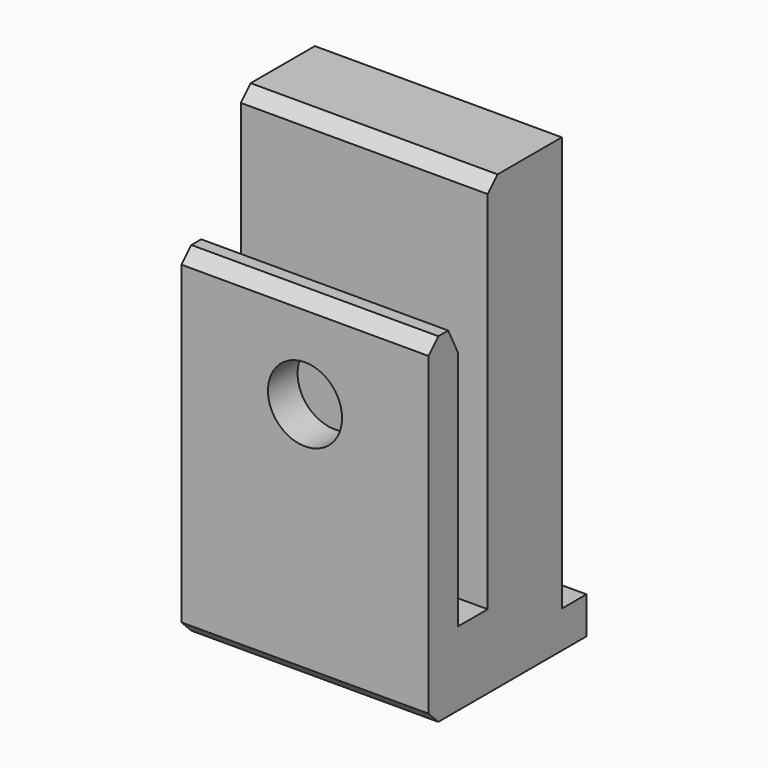
from build123d import *

# Parameters (mm, degrees)
CYLINDER016_R     = 1.7
CYLINDER016_DEPTH = 20
CYLINDER015_R     = 3
CYLINDER015_DEPTH = 20
BOX026_W          = 20
BOX026_H          = 6
BOX026_DEPTH      = 6
BOX025_W          = 20
BOX025_H          = 7.5
BOX025_DEPTH      = 36.6
BOX027_W          = 20
BOX027_H          = 16
BOX027_DEPTH      = 3
BOX028_W          = 20
BOX028_H          = 3
BOX028_DEPTH      = 27.5
CHAMFER022_SIZE2  = 2
CHAMFER022_SIZE   = 1
CHAMFER023_SIZE   = 1


with BuildPart() as cylinder016:
    # Cylinder016 → Cylinder016 (new body)
    with BuildSketch(Plane(origin=(10, 12, 16.8), x_dir=(1, 0, 0), z_dir=(0, -1, 0))):
        Circle(CYLINDER016_R)
    extrude(amount=CYLINDER016_DEPTH)


with BuildPart() as cylinder015:
    # Cylinder015 → Cylinder015 (new body)
    with BuildSketch(Plane(origin=(10, 5, 16.8), x_dir=(1, 0, 0), z_dir=(0, -1, 0))):
        Circle(CYLINDER015_R)
    extrude(amount=CYLINDER015_DEPTH)


with BuildPart() as cube026:
    # Box026 → Box026 (new body)
    with BuildSketch(Plane(origin=(0, -6, -3), x_dir=(1, 0, 0), z_dir=(0, 0, 1))):
        with Locations((10, 3)):
            Rectangle(BOX026_W, BOX026_H)
    extrude(amount=BOX026_DEPTH)


with BuildPart() as cube025:
    # Box025 → Box025 (new body)
    with BuildSketch(Plane.XY.offset(-3)):
        with Locations((10, 3.75)):
            Rectangle(BOX025_W, BOX025_H)
    extrude(amount=BOX025_DEPTH)


with BuildPart() as cube027:
    # Box027 → Box027 (new body)
    with BuildSketch(Plane(origin=(0, -6, -3), x_dir=(1, 0, 0), z_dir=(0, 0, 1))):
        with Locations((10, 8)):
            Rectangle(BOX027_W, BOX027_H)
    extrude(amount=BOX027_DEPTH)


with BuildPart() as clip_side_bottom_center:
    # Box028 → Box028 (new body)
    with BuildSketch(Plane(origin=(0, -6, -3), x_dir=(1, 0, 0), z_dir=(0, 0, 1))):
        with Locations((10, 1.5)):
            Rectangle(BOX028_W, BOX028_H)
    extrude(amount=BOX028_DEPTH)

    # Fusion011: union Cube026, Cube025, Cube027
    add(cube026.part)
    add(cube025.part)
    add(cube027.part)

    # Chamfer022
    chamfer022_edges = [clip_side_bottom_center.edges().sort_by_distance(p)[0] for p in [
        (10, -3, 24.5),
    ]]
    chamfer022_side = clip_side_bottom_center.faces().sort_by_distance((10, -4.5, 24.5))[0]
    chamfer(chamfer022_edges, length=CHAMFER022_SIZE, length2=CHAMFER022_SIZE2, reference=chamfer022_side)

    # Chamfer023
    chamfer023_edges = [clip_side_bottom_center.edges().sort_by_distance(p)[0] for p in [
        (10, -6, 24.5),
        (10, -6, -3),
        (10, 0, 33.6),
    ]]
    chamfer(chamfer023_edges, length=CHAMFER023_SIZE)

    # Cut012: cut Cylinder015
    add(cylinder015.part, mode=Mode.SUBTRACT)

    # Cut013: cut Cylinder016
    add(cylinder016.part, mode=Mode.SUBTRACT)


solid = clip_side_bottom_center.part
